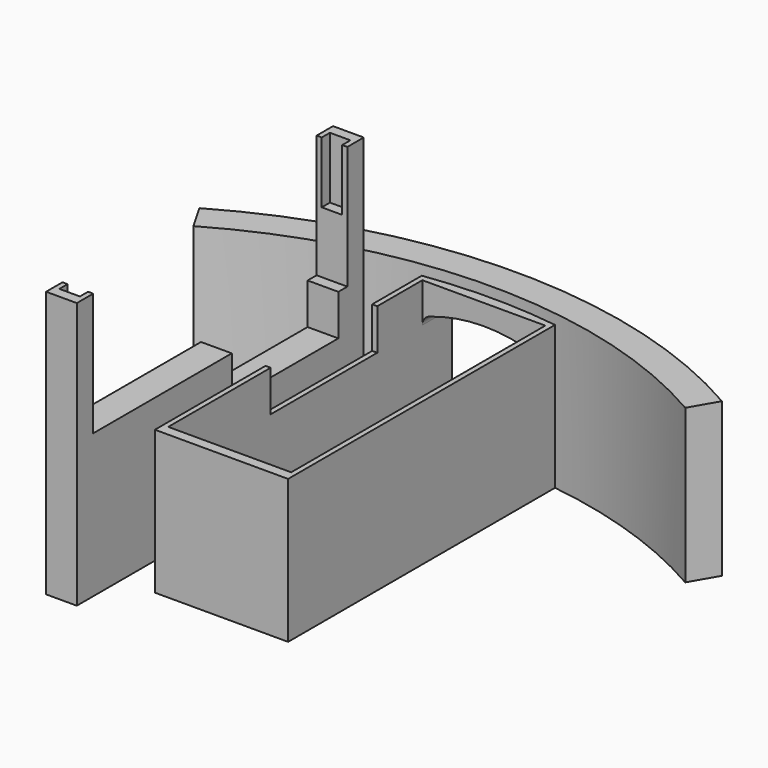
from build123d import *

# Parameters (mm, degrees)
BOX005_W                    = 10
BOX005_H                    = 13
BOX005_DEPTH                = 4
BOX004_W                    = 3
BOX004_H                    = 31
BOX004_DEPTH                = 14
BOX003_W                    = 2
BOX003_H                    = 33
BOX003_DEPTH                = 11.2
BOX002_W                    = 3
BOX002_H                    = 35
BOX002_DEPTH                = 26
EXTRUDE_DEPTH               = 5
EXTRUDE001_DEPTH            = 5
THICKNESS_T                 = 1
BOX_W                       = 12
BOX_H                       = 31
BOX_DEPTH                   = 15
BOX001_W                    = 13
BOX001_H                    = 34
BOX001_DEPTH                = 14
CYLINDER001_W               = 48
CYLINDER001_H               = 15
CYLINDER001_ANGLE           = 60
CYLINDER001_PLACEMENT_ANGLE = 60
CYLINDER_W                  = 51
CYLINDER_H                  = 15
CYLINDER_ANGLE              = 60
CYLINDER_PLACEMENT_ANGLE    = 60


with BuildPart() as servo_wall_cutaway:
    # Box005 → Box005 (new body)
    with BuildSketch(Plane(origin=(-6, 19.5, 10), x_dir=(1, 0, 0), z_dir=(0, 0, 1))):
        with Locations((5, 6.5)):
            Rectangle(BOX005_W, BOX005_H)
    extrude(amount=BOX005_DEPTH)


with BuildPart() as slot_wall_cutout2:
    # Box004 → Box004 (new body)
    with BuildSketch(Plane(origin=(-1, 7, 14), x_dir=(1, 0, 0), z_dir=(0, 0, 1))):
        with Locations((1.5, 15.5)):
            Rectangle(BOX004_W, BOX004_H)
    extrude(amount=BOX004_DEPTH)


with BuildPart() as slot_wall_cutout1:
    # Box003 → Box003 (new body)
    with BuildSketch(Plane(origin=(-0.5, 6, 20), x_dir=(1, 0, 0), z_dir=(0, 0, 1))):
        with Locations((1, 16.5)):
            Rectangle(BOX003_W, BOX003_H)
    extrude(amount=BOX003_DEPTH)


with BuildPart() as wall_slot_finished:
    # Box002 → Box002 (new body)
    with BuildSketch(Plane(origin=(-1, 5, 0), x_dir=(1, 0, 0), z_dir=(0, 0, 1))):
        with Locations((1.5, 17.5)):
            Rectangle(BOX002_W, BOX002_H)
    extrude(amount=BOX002_DEPTH)

    # Cut003: cut slot wall cutout1
    add(slot_wall_cutout1.part, mode=Mode.SUBTRACT)

    # Cut004: cut slot wall cutout2
    add(slot_wall_cutout2.part, mode=Mode.SUBTRACT)


with BuildPart() as wall_slot_finished_1:
    # Cut004 placement: moved
    add(wall_slot_finished.part.moved(Location((-3.3, -4.4, 0))))


with BuildPart() as extrude_body:
    with BuildSketch(Plane(origin=(8.5, 45, 6), x_dir=(1, 0, 0), z_dir=(0, 1, 0))):
        with BuildLine():
            Line((5, 4), (-5, 4))
            Line((-5, 4), (-5, -3.142136))
            ThreePointArc((-5, -3.142136), (-2.53653, -3.783978), (0, -4))
            ThreePointArc((0, -4), (2.53653, -3.783978), (5, -3.142136))
            Line((5, -3.142136), (5, 4))
        make_face()
    extrude(amount=EXTRUDE_DEPTH)


with BuildPart() as extrude001:
    with BuildSketch(Plane(origin=(8.5, 45, 6), x_dir=(1, 0, 0), z_dir=(0, 1, 0))):
        with BuildLine():
            Line((5, 4), (-5, 4))
            Line((-5, 4), (-5, -3.142136))
            ThreePointArc((-5, -3.142136), (-2.53653, -3.783978), (0, -4))
            ThreePointArc((0, -4), (2.53653, -3.783978), (5, -3.142136))
            Line((5, -3.142136), (5, 4))
        make_face()
    extrude(amount=EXTRUDE001_DEPTH)


with BuildPart() as bolt_bottle_side_opening:
    # Thickness base: copy of Extrude body
    add(extrude_body.part)

    # Thickness
    thickness_openings = [bolt_bottle_side_opening.faces().sort_by_distance(p)[0] for p in [
        (8.5, 50, 5.862901),
    ]]
    offset(amount=THICKNESS_T, openings=thickness_openings)

    # Fusion: union Extrude body, Extrude001
    add(extrude_body.part)
    add(extrude001.part)


with BuildPart() as bolt_bottle_side_opening_1:
    # Fusion placement: moved
    add(bolt_bottle_side_opening.part.moved(Location((0, -7, 1))))


with BuildPart() as pullbay:
    # Box → Box (new body)
    with BuildSketch(Plane(origin=(2.5, 7, 2), x_dir=(1, 0, 0), z_dir=(0, 0, 1))):
        with Locations((6, 15.5)):
            Rectangle(BOX_W, BOX_H)
    extrude(amount=BOX_DEPTH)


with BuildPart() as cut_bay_from_case:
    # Box001 → Box001 (new body)
    with BuildSketch(Plane(origin=(2, 6, 0), x_dir=(1, 0, 0), z_dir=(0, 0, 1))):
        with Locations((6.5, 17)):
            Rectangle(BOX001_W, BOX001_H)
    extrude(amount=BOX001_DEPTH)

    # Cut001: cut pullBay
    add(pullbay.part, mode=Mode.SUBTRACT)


with BuildPart() as bottle_wall001:
    # Cylinder001 → Cylinder001 (revolve)
    with BuildSketch(Plane.XZ):
        with Locations((24, 7.5)):
            Rectangle(CYLINDER001_W, CYLINDER001_H)
    revolve(axis=Axis((0, 0, 0), (0, 0, 1)), revolution_arc=CYLINDER001_ANGLE)


with BuildPart() as bottle_wall001_1:
    # Cylinder001 placement: moved
    add(bottle_wall001.part.moved(Location((8.5, -7, 0))).rotate(Axis((8.5, -7, 0), (0, 0, 1)), CYLINDER001_PLACEMENT_ANGLE))


with BuildPart() as cut005:
    # Cylinder → Cylinder (revolve)
    with BuildSketch(Plane.XZ):
        with Locations((25.5, 7.5)):
            Rectangle(CYLINDER_W, CYLINDER_H)
    revolve(axis=Axis((0, 0, 0), (0, 0, 1)), revolution_arc=CYLINDER_ANGLE)


with BuildPart() as cut005_1:
    # Cylinder placement: moved
    add(cut005.part.moved(Location((8.5, -7, 0))).rotate(Axis((8.5, -7, 0), (0, 0, 1)), CYLINDER_PLACEMENT_ANGLE))

    # Cut: cut bottle_wall001
    add(bottle_wall001_1.part, mode=Mode.SUBTRACT)


with BuildPart() as cut005_2:
    # Cut placement: moved
    add(cut005_1.part.moved(Location((0, -2, 0))))

    # Fusion001: union cut bay from case
    add(cut_bay_from_case.part)

    # Cut002: cut bolt_bottle_side_opening
    add(bolt_bottle_side_opening_1.part, mode=Mode.SUBTRACT)

    # Fusion002: union wall slot finished
    add(wall_slot_finished_1.part)

    # Cut005: cut servo wall cutaway
    add(servo_wall_cutaway.part, mode=Mode.SUBTRACT)


solid = cut005_2.part
